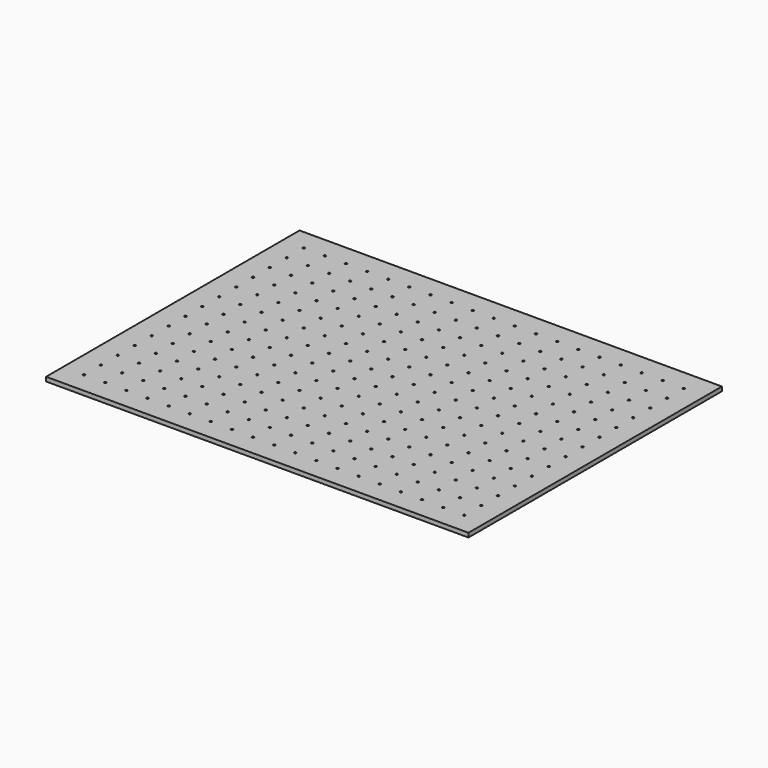
from build123d import *

# Parameters (mm, degrees)
F0_W     = 400
F0_H     = 300
F1_DEPTH = 4
F2_R     = 1
F3_DEPTH = 4.001


with BuildPart() as f1:
    # F0 (on Top) → F1 (new body)
    with BuildSketch(Plane.XY):
        with Locations((200, 150)):
            Rectangle(F0_W, F0_H)
    extrude(amount=F1_DEPTH)

    # F2 (on face) → F3 (cut, through all)
    with BuildSketch(Plane.XY.offset(4)):
        with Locations((20, 280)):
            Circle(F2_R)
        with Locations((40, 280)):
            Circle(F2_R)
        with Locations((60, 280)):
            Circle(F2_R)
        with Locations((80, 280)):
            Circle(F2_R)
        with Locations((100, 280)):
            Circle(F2_R)
        with Locations((120, 280)):
            Circle(F2_R)
        with Locations((140, 280)):
            Circle(F2_R)
        with Locations((160, 280)):
            Circle(F2_R)
        with Locations((180, 280)):
            Circle(F2_R)
        with Locations((200, 280)):
            Circle(F2_R)
        with Locations((220, 280)):
            Circle(F2_R)
        with Locations((240, 280)):
            Circle(F2_R)
        with Locations((260, 280)):
            Circle(F2_R)
        with Locations((280, 280)):
            Circle(F2_R)
        with Locations((300, 280)):
            Circle(F2_R)
        with Locations((320, 280)):
            Circle(F2_R)
        with Locations((340, 280)):
            Circle(F2_R)
        with Locations((360, 280)):
            Circle(F2_R)
        with Locations((380, 280)):
            Circle(F2_R)
        with Locations((160, 260)):
            Circle(F2_R)
        with Locations((180, 260)):
            Circle(F2_R)
        with Locations((200, 260)):
            Circle(F2_R)
        with Locations((220, 260)):
            Circle(F2_R)
        with Locations((240, 260)):
            Circle(F2_R)
        with Locations((260, 260)):
            Circle(F2_R)
        with Locations((380, 260)):
            Circle(F2_R)
        with Locations((340, 260)):
            Circle(F2_R)
        with Locations((360, 260)):
            Circle(F2_R)
        with Locations((280, 260)):
            Circle(F2_R)
        with Locations((300, 260)):
            Circle(F2_R)
        with Locations((320, 260)):
            Circle(F2_R)
        with Locations((60, 260)):
            Circle(F2_R)
        with Locations((80, 260)):
            Circle(F2_R)
        with Locations((100, 260)):
            Circle(F2_R)
        with Locations((120, 260)):
            Circle(F2_R)
        with Locations((140, 260)):
            Circle(F2_R)
        with Locations((20, 260)):
            Circle(F2_R)
        with Locations((40, 260)):
            Circle(F2_R)
        with Locations((160, 240)):
            Circle(F2_R)
        with Locations((180, 240)):
            Circle(F2_R)
        with Locations((200, 240)):
            Circle(F2_R)
        with Locations((220, 240)):
            Circle(F2_R)
        with Locations((240, 240)):
            Circle(F2_R)
        with Locations((260, 240)):
            Circle(F2_R)
        with Locations((380, 240)):
            Circle(F2_R)
        with Locations((340, 240)):
            Circle(F2_R)
        with Locations((360, 240)):
            Circle(F2_R)
        with Locations((280, 240)):
            Circle(F2_R)
        with Locations((300, 240)):
            Circle(F2_R)
        with Locations((320, 240)):
            Circle(F2_R)
        with Locations((60, 240)):
            Circle(F2_R)
        with Locations((80, 240)):
            Circle(F2_R)
        with Locations((100, 240)):
            Circle(F2_R)
        with Locations((120, 240)):
            Circle(F2_R)
        with Locations((140, 240)):
            Circle(F2_R)
        with Locations((20, 240)):
            Circle(F2_R)
        with Locations((40, 240)):
            Circle(F2_R)
        with Locations((160, 220)):
            Circle(F2_R)
        with Locations((180, 220)):
            Circle(F2_R)
        with Locations((200, 220)):
            Circle(F2_R)
        with Locations((220, 220)):
            Circle(F2_R)
        with Locations((240, 220)):
            Circle(F2_R)
        with Locations((260, 220)):
            Circle(F2_R)
        with Locations((380, 220)):
            Circle(F2_R)
        with Locations((340, 220)):
            Circle(F2_R)
        with Locations((360, 220)):
            Circle(F2_R)
        with Locations((280, 220)):
            Circle(F2_R)
        with Locations((300, 220)):
            Circle(F2_R)
        with Locations((320, 220)):
            Circle(F2_R)
        with Locations((60, 220)):
            Circle(F2_R)
        with Locations((80, 220)):
            Circle(F2_R)
        with Locations((100, 220)):
            Circle(F2_R)
        with Locations((120, 220)):
            Circle(F2_R)
        with Locations((140, 220)):
            Circle(F2_R)
        with Locations((20, 220)):
            Circle(F2_R)
        with Locations((40, 220)):
            Circle(F2_R)
        with Locations((160, 200)):
            Circle(F2_R)
        with Locations((180, 200)):
            Circle(F2_R)
        with Locations((200, 200)):
            Circle(F2_R)
        with Locations((220, 200)):
            Circle(F2_R)
        with Locations((240, 200)):
            Circle(F2_R)
        with Locations((260, 200)):
            Circle(F2_R)
        with Locations((380, 200)):
            Circle(F2_R)
        with Locations((340, 200)):
            Circle(F2_R)
        with Locations((360, 200)):
            Circle(F2_R)
        with Locations((280, 200)):
            Circle(F2_R)
        with Locations((300, 200)):
            Circle(F2_R)
        with Locations((320, 200)):
            Circle(F2_R)
        with Locations((60, 200)):
            Circle(F2_R)
        with Locations((80, 200)):
            Circle(F2_R)
        with Locations((100, 200)):
            Circle(F2_R)
        with Locations((120, 200)):
            Circle(F2_R)
        with Locations((140, 200)):
            Circle(F2_R)
        with Locations((20, 200)):
            Circle(F2_R)
        with Locations((40, 200)):
            Circle(F2_R)
        with Locations((160, 180)):
            Circle(F2_R)
        with Locations((180, 180)):
            Circle(F2_R)
        with Locations((200, 180)):
            Circle(F2_R)
        with Locations((220, 180)):
            Circle(F2_R)
        with Locations((240, 180)):
            Circle(F2_R)
        with Locations((260, 180)):
            Circle(F2_R)
        with Locations((380, 180)):
            Circle(F2_R)
        with Locations((340, 180)):
            Circle(F2_R)
        with Locations((360, 180)):
            Circle(F2_R)
        with Locations((280, 180)):
            Circle(F2_R)
        with Locations((300, 180)):
            Circle(F2_R)
        with Locations((320, 180)):
            Circle(F2_R)
        with Locations((60, 180)):
            Circle(F2_R)
        with Locations((80, 180)):
            Circle(F2_R)
        with Locations((100, 180)):
            Circle(F2_R)
        with Locations((120, 180)):
            Circle(F2_R)
        with Locations((140, 180)):
            Circle(F2_R)
        with Locations((20, 180)):
            Circle(F2_R)
        with Locations((40, 180)):
            Circle(F2_R)
        with Locations((160, 160)):
            Circle(F2_R)
        with Locations((180, 160)):
            Circle(F2_R)
        with Locations((200, 160)):
            Circle(F2_R)
        with Locations((220, 160)):
            Circle(F2_R)
        with Locations((240, 160)):
            Circle(F2_R)
        with Locations((260, 160)):
            Circle(F2_R)
        with Locations((380, 160)):
            Circle(F2_R)
        with Locations((340, 160)):
            Circle(F2_R)
        with Locations((360, 160)):
            Circle(F2_R)
        with Locations((280, 160)):
            Circle(F2_R)
        with Locations((300, 160)):
            Circle(F2_R)
        with Locations((320, 160)):
            Circle(F2_R)
        with Locations((60, 160)):
            Circle(F2_R)
        with Locations((80, 160)):
            Circle(F2_R)
        with Locations((100, 160)):
            Circle(F2_R)
        with Locations((120, 160)):
            Circle(F2_R)
        with Locations((140, 160)):
            Circle(F2_R)
        with Locations((20, 160)):
            Circle(F2_R)
        with Locations((40, 160)):
            Circle(F2_R)
        with Locations((160, 140)):
            Circle(F2_R)
        with Locations((180, 140)):
            Circle(F2_R)
        with Locations((200, 140)):
            Circle(F2_R)
        with Locations((220, 140)):
            Circle(F2_R)
        with Locations((240, 140)):
            Circle(F2_R)
        with Locations((260, 140)):
            Circle(F2_R)
        with Locations((380, 140)):
            Circle(F2_R)
        with Locations((340, 140)):
            Circle(F2_R)
        with Locations((360, 140)):
            Circle(F2_R)
        with Locations((280, 140)):
            Circle(F2_R)
        with Locations((300, 140)):
            Circle(F2_R)
        with Locations((320, 140)):
            Circle(F2_R)
        with Locations((60, 140)):
            Circle(F2_R)
        with Locations((80, 140)):
            Circle(F2_R)
        with Locations((100, 140)):
            Circle(F2_R)
        with Locations((120, 140)):
            Circle(F2_R)
        with Locations((140, 140)):
            Circle(F2_R)
        with Locations((20, 140)):
            Circle(F2_R)
        with Locations((40, 140)):
            Circle(F2_R)
        with Locations((160, 120)):
            Circle(F2_R)
        with Locations((180, 120)):
            Circle(F2_R)
        with Locations((200, 120)):
            Circle(F2_R)
        with Locations((220, 120)):
            Circle(F2_R)
        with Locations((240, 120)):
            Circle(F2_R)
        with Locations((260, 120)):
            Circle(F2_R)
        with Locations((380, 120)):
            Circle(F2_R)
        with Locations((340, 120)):
            Circle(F2_R)
        with Locations((360, 120)):
            Circle(F2_R)
        with Locations((280, 120)):
            Circle(F2_R)
        with Locations((300, 120)):
            Circle(F2_R)
        with Locations((320, 120)):
            Circle(F2_R)
        with Locations((60, 120)):
            Circle(F2_R)
        with Locations((80, 120)):
            Circle(F2_R)
        with Locations((100, 120)):
            Circle(F2_R)
        with Locations((120, 120)):
            Circle(F2_R)
        with Locations((140, 120)):
            Circle(F2_R)
        with Locations((20, 120)):
            Circle(F2_R)
        with Locations((40, 120)):
            Circle(F2_R)
        with Locations((160, 100)):
            Circle(F2_R)
        with Locations((180, 100)):
            Circle(F2_R)
        with Locations((200, 100)):
            Circle(F2_R)
        with Locations((220, 100)):
            Circle(F2_R)
        with Locations((240, 100)):
            Circle(F2_R)
        with Locations((260, 100)):
            Circle(F2_R)
        with Locations((380, 100)):
            Circle(F2_R)
        with Locations((340, 100)):
            Circle(F2_R)
        with Locations((360, 100)):
            Circle(F2_R)
        with Locations((280, 100)):
            Circle(F2_R)
        with Locations((300, 100)):
            Circle(F2_R)
        with Locations((320, 100)):
            Circle(F2_R)
        with Locations((60, 100)):
            Circle(F2_R)
        with Locations((80, 100)):
            Circle(F2_R)
        with Locations((100, 100)):
            Circle(F2_R)
        with Locations((120, 100)):
            Circle(F2_R)
        with Locations((140, 100)):
            Circle(F2_R)
        with Locations((20, 100)):
            Circle(F2_R)
        with Locations((40, 100)):
            Circle(F2_R)
        with Locations((160, 80)):
            Circle(F2_R)
        with Locations((180, 80)):
            Circle(F2_R)
        with Locations((200, 80)):
            Circle(F2_R)
        with Locations((220, 80)):
            Circle(F2_R)
        with Locations((240, 80)):
            Circle(F2_R)
        with Locations((260, 80)):
            Circle(F2_R)
        with Locations((380, 80)):
            Circle(F2_R)
        with Locations((340, 80)):
            Circle(F2_R)
        with Locations((360, 80)):
            Circle(F2_R)
        with Locations((280, 80)):
            Circle(F2_R)
        with Locations((300, 80)):
            Circle(F2_R)
        with Locations((320, 80)):
            Circle(F2_R)
        with Locations((60, 80)):
            Circle(F2_R)
        with Locations((80, 80)):
            Circle(F2_R)
        with Locations((100, 80)):
            Circle(F2_R)
        with Locations((120, 80)):
            Circle(F2_R)
        with Locations((140, 80)):
            Circle(F2_R)
        with Locations((20, 80)):
            Circle(F2_R)
        with Locations((40, 80)):
            Circle(F2_R)
        with Locations((160, 60)):
            Circle(F2_R)
        with Locations((180, 60)):
            Circle(F2_R)
        with Locations((200, 60)):
            Circle(F2_R)
        with Locations((220, 60)):
            Circle(F2_R)
        with Locations((240, 60)):
            Circle(F2_R)
        with Locations((260, 60)):
            Circle(F2_R)
        with Locations((380, 60)):
            Circle(F2_R)
        with Locations((340, 60)):
            Circle(F2_R)
        with Locations((360, 60)):
            Circle(F2_R)
        with Locations((280, 60)):
            Circle(F2_R)
        with Locations((300, 60)):
            Circle(F2_R)
        with Locations((320, 60)):
            Circle(F2_R)
        with Locations((60, 60)):
            Circle(F2_R)
        with Locations((80, 60)):
            Circle(F2_R)
        with Locations((100, 60)):
            Circle(F2_R)
        with Locations((120, 60)):
            Circle(F2_R)
        with Locations((140, 60)):
            Circle(F2_R)
        with Locations((20, 60)):
            Circle(F2_R)
        with Locations((40, 60)):
            Circle(F2_R)
        with Locations((160, 40)):
            Circle(F2_R)
        with Locations((180, 40)):
            Circle(F2_R)
        with Locations((200, 40)):
            Circle(F2_R)
        with Locations((220, 40)):
            Circle(F2_R)
        with Locations((240, 40)):
            Circle(F2_R)
        with Locations((260, 40)):
            Circle(F2_R)
        with Locations((380, 40)):
            Circle(F2_R)
        with Locations((340, 40)):
            Circle(F2_R)
        with Locations((360, 40)):
            Circle(F2_R)
        with Locations((280, 40)):
            Circle(F2_R)
        with Locations((300, 40)):
            Circle(F2_R)
        with Locations((320, 40)):
            Circle(F2_R)
        with Locations((60, 40)):
            Circle(F2_R)
        with Locations((80, 40)):
            Circle(F2_R)
        with Locations((100, 40)):
            Circle(F2_R)
        with Locations((120, 40)):
            Circle(F2_R)
        with Locations((140, 40)):
            Circle(F2_R)
        with Locations((20, 40)):
            Circle(F2_R)
        with Locations((40, 40)):
            Circle(F2_R)
        with Locations((160, 20)):
            Circle(F2_R)
        with Locations((180, 20)):
            Circle(F2_R)
        with Locations((200, 20)):
            Circle(F2_R)
        with Locations((220, 20)):
            Circle(F2_R)
        with Locations((240, 20)):
            Circle(F2_R)
        with Locations((260, 20)):
            Circle(F2_R)
        with Locations((380, 20)):
            Circle(F2_R)
        with Locations((340, 20)):
            Circle(F2_R)
        with Locations((360, 20)):
            Circle(F2_R)
        with Locations((280, 20)):
            Circle(F2_R)
        with Locations((300, 20)):
            Circle(F2_R)
        with Locations((320, 20)):
            Circle(F2_R)
        with Locations((60, 20)):
            Circle(F2_R)
        with Locations((80, 20)):
            Circle(F2_R)
        with Locations((100, 20)):
            Circle(F2_R)
        with Locations((120, 20)):
            Circle(F2_R)
        with Locations((140, 20)):
            Circle(F2_R)
        with Locations((20, 20)):
            Circle(F2_R)
        with Locations((40, 20)):
            Circle(F2_R)
    extrude(amount=-F3_DEPTH, mode=Mode.SUBTRACT)


solid = f1.part
